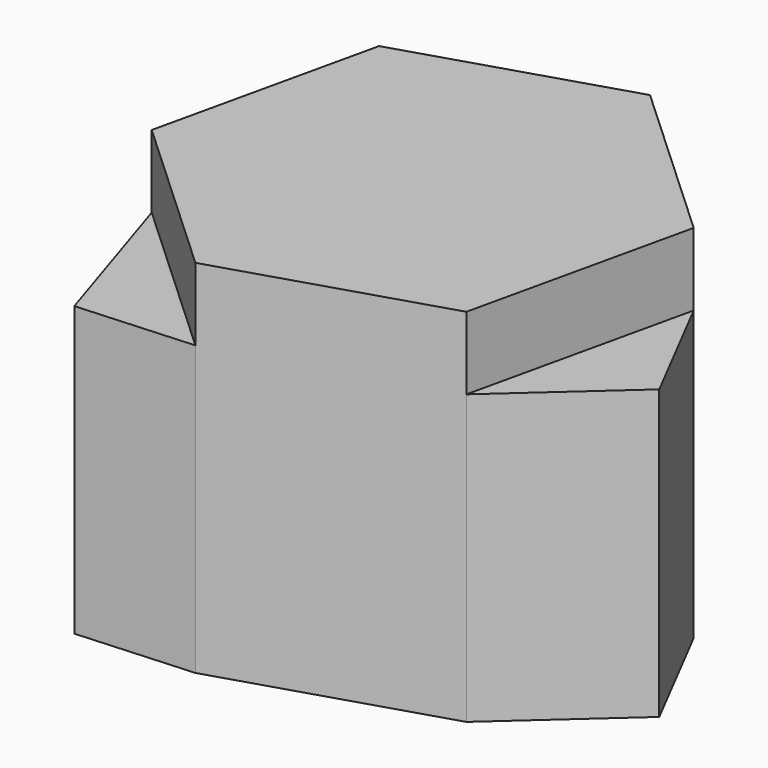
from build123d import *

# Parameters (mm, degrees)
F1_DEPTH = 78.232
F2_DEPTH = 62.484
F3_DEPTH = 62.484


with BuildPart() as f1:
    # F0 (on Top) → F1 (new body)
    with BuildSketch(Plane.XY):
        Polygon((-36.178753, 33.396009), (-47.011169, -14.633714), (-10.832416, -48.029724), (36.178753, -33.396009), (47.011169, 14.633714), (10.832416, 48.029724), align=None)
    extrude(amount=F1_DEPTH)

    # F0 (on Top) → F2 (join)
    with BuildSketch(Plane.XY):
        Polygon((-10.832416, -48.029724), (-47.011169, -14.633714), (-35.825498, -49.588244), align=None)
    extrude(amount=F2_DEPTH)

    # F0 (on Top) → F3 (join)
    with BuildSketch(Plane.XY):
        Polygon((47.011169, 14.633714), (36.178753, -33.396009), (60.519096, -11.588277), align=None)
    extrude(amount=F3_DEPTH)


solid = f1.part
